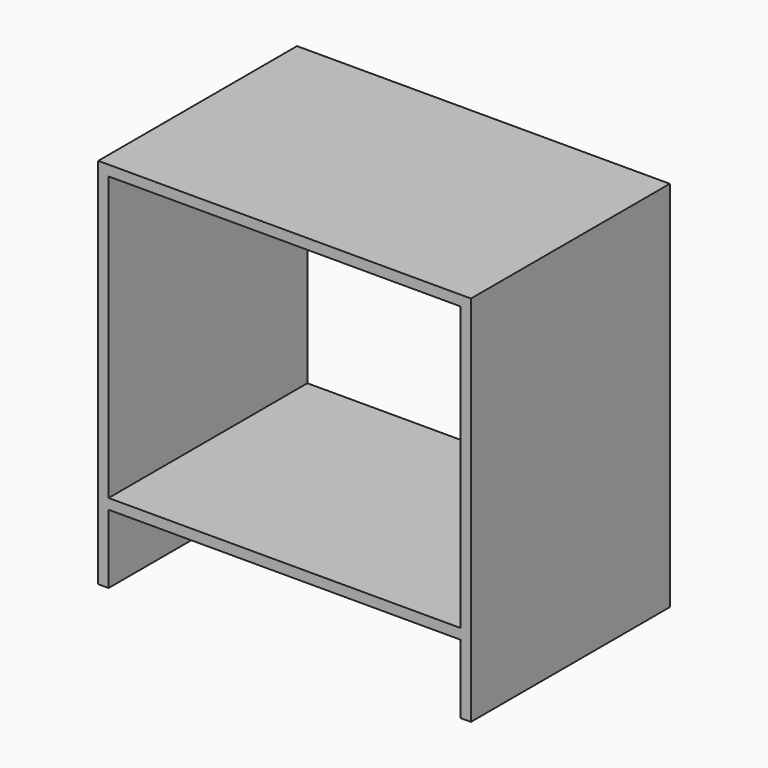
from build123d import *

# Parameters (mm, degrees)
F0_W     = 914.4
F0_H     = 609.6
F1_DEPTH = 914.4
F2_T     = -25.4
F3_W     = 609.6
F3_H     = 25.4
F4_DEPTH = 863.6


with BuildPart() as f1:
    # F0 (on Top) → F1 (new body)
    with BuildSketch(Plane.XY):
        with Locations((-1.154758, 4.566898)):
            Rectangle(F0_W, F0_H)
    extrude(amount=F1_DEPTH)

    # F2
    f2_openings = [f1.faces().sort_by_distance(p)[0] for p in [
        (-1.154758, 4.566898, 0),
        (-1.154758, -300.233102, 457.2),
        (-1.154758, 309.366898, 457.2),
    ]]
    offset(amount=F2_T, openings=f2_openings)

    # F3 (on face) → F4 (join, through all)
    with BuildSketch(Plane.YZ.offset(-432.954758)):
        with Locations((4.566898, 181.854316)):
            Rectangle(F3_W, F3_H)
    extrude(amount=F4_DEPTH)


solid = f1.part
